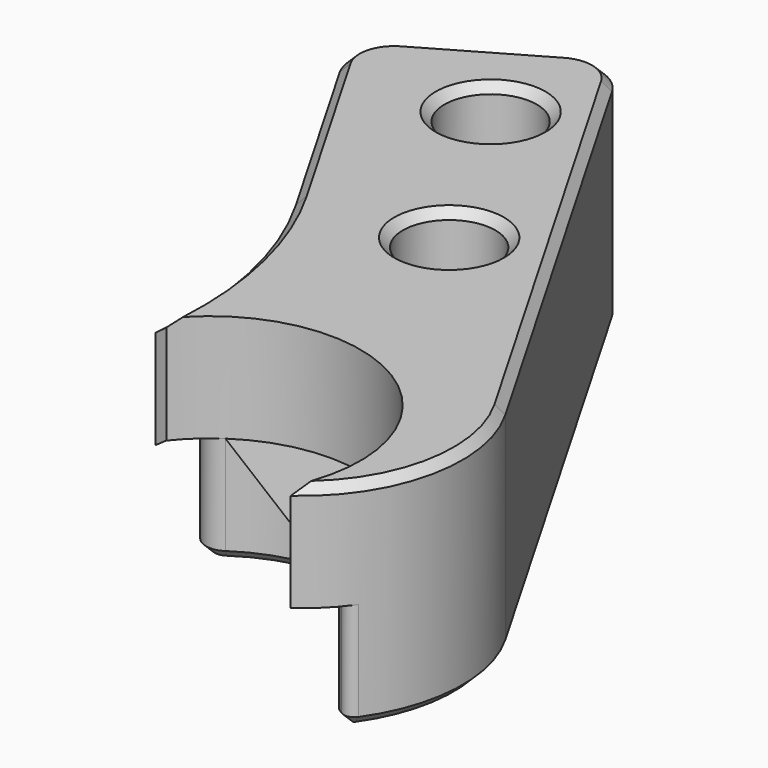
from build123d import *

# Parameters (mm, degrees)
SKETCH124_R     = 2.15
SKETCH124_R_2   = 2.3
PAD063_DEPTH    = 10
FILLET015_R     = 18
SKETCH125_R     = 7
POCKET024_DEPTH = 5
FILLET016_R     = 1
CHAMFER020_SIZE = 2
FILLET017_R     = 0.5
FILLET018_R     = 2
CHAMFER021_SIZE = 0.4
CHAMFER022_SIZE = 0.4
POCKET025_DEPTH = 5.001


with BuildPart() as part:
    # Sketch124 → Pad063 (new body)
    with BuildSketch(Plane.XY):
        with BuildLine():
            ThreePointArc((-79.897948, -56.506276), (-74.885488, -68.848364), (-67.70216, -57.63))
            Line((-81.557822, -33.631289), (-67.70216, -57.63))
            Line((-90.218076, -38.631289), (-81.557822, -33.631289))
            Line((-79.897948, -56.506276), (-90.218076, -38.631289))
        make_face()
        with Locations((-82.521924, -39.961416)):
            Circle(SKETCH124_R, mode=Mode.SUBTRACT)
        with Locations((-77.521924, -48.62167)):
            Circle(SKETCH124_R, mode=Mode.SUBTRACT)
        with Locations((-76.073725, -64.334525)):
            Circle(SKETCH124_R_2, mode=Mode.SUBTRACT)
    extrude(amount=-PAD063_DEPTH)

    # Fillet015
    fillet015_edges = [part.edges().sort_by_distance(p)[0] for p in [
        (-79.897948, -56.506276, -5),
    ]]
    fillet(fillet015_edges, radius=FILLET015_R)

    # Sketch125 (on Face9 of Pad063) → Pocket024 (cut)
    with BuildSketch(Plane(origin=(0, 0, -10), x_dir=(1, 0, 0), z_dir=(0, 0, -1))):
        with Locations((-76.073725, 64.334525)):
            Circle(SKETCH125_R)
    extrude(amount=-POCKET024_DEPTH, mode=Mode.SUBTRACT)

    # Fillet016
    fillet016_edges = [part.edges().sort_by_distance(p)[0] for p in [
        (-81.599898, -60.037849, -7.5),
    ]]
    fillet(fillet016_edges, radius=FILLET016_R)

    # Chamfer020
    chamfer020_edges = [part.edges().sort_by_distance(p)[0] for p in [
        (-69.812586, -67.464722, -7.5),
    ]]
    chamfer(chamfer020_edges, length=CHAMFER020_SIZE)

    # Fillet017
    fillet017_edges = [part.edges().sort_by_distance(p)[0] for p in [
        (-68.360384, -66.089546, -7.5),
        (-69.182974, -65.56641, -7.5),
    ]]
    fillet(fillet017_edges, radius=FILLET017_R)

    # Fillet018
    fillet018_edges = [part.edges().sort_by_distance(p)[0] for p in [
        (-90.218076, -38.631289, -5),
        (-81.557822, -33.631289, -5),
    ]]
    fillet(fillet018_edges, radius=FILLET018_R)

    # Chamfer021
    chamfer021_edges = [part.edges().sort_by_distance(p)[0] for p in [
        (-86.581683, -44.929707, -10),
        (-89.417877, -38.845701, -10),
        (-82.247957, -53.475965, -10),
        (-85.887949, -36.131289, -10),
        (-81.00102, -58.596881, -10),
        (-81.772235, -34.431488, -10),
        (-72.788816, -58.153152, -10),
        (-74.129991, -46.49667, -10),
        (-69.088914, -64.795399, -10),
        (-66.705228, -61.723657, -10),
        (-69.091911, -65.53126, -10),
        (-68.38438, -65.910837, -10),
        (-68.82821, -65.792027, -10),
        (-84.671924, -39.961416, -10),
        (-79.671924, -48.62167, -10),
        (-74.129991, -46.49667, 0),
        (-81.772235, -34.431488, 0),
        (-72.669638, -68.722758, 0),
        (-85.887949, -36.131289, 0),
        (-81.911127, -54.829564, 0),
        (-89.417877, -38.845701, 0),
        (-86.581683, -44.929707, 0),
        (-78.373725, -64.334525, 0),
        (-84.671924, -39.961416, 0),
        (-79.671924, -48.62167, 0),
    ]]
    chamfer(chamfer021_edges, length=CHAMFER021_SIZE)

    # Chamfer022
    chamfer022_edges = [part.edges().sort_by_distance(p)[0] for p in [
        (-78.373725, -64.334525, -5),
    ]]
    chamfer(chamfer022_edges, length=CHAMFER022_SIZE)


with BuildPart() as part_1:
    # Body054 placement: moved
    add(part.part.moved(Location((0, 0, 58.5))))

    # Sketch126 (on Binder) → Pocket025 (cut, through all)
    with BuildSketch(Plane(origin=(0, 0, 53.5), x_dir=(1, 0, 0), z_dir=(0, 0, -1))):
        with BuildLine():
            ThreePointArc((-81.568997, 59.998399), (-72.320975, 58.425475), (-69.812586, 67.464722))
            ThreePointArc((-69.812586, 67.464722), (-78.218154, 67.711124), (-81.568997, 59.998399))
        make_face()
    extrude(amount=-POCKET025_DEPTH, mode=Mode.SUBTRACT)


solid = part_1.part
